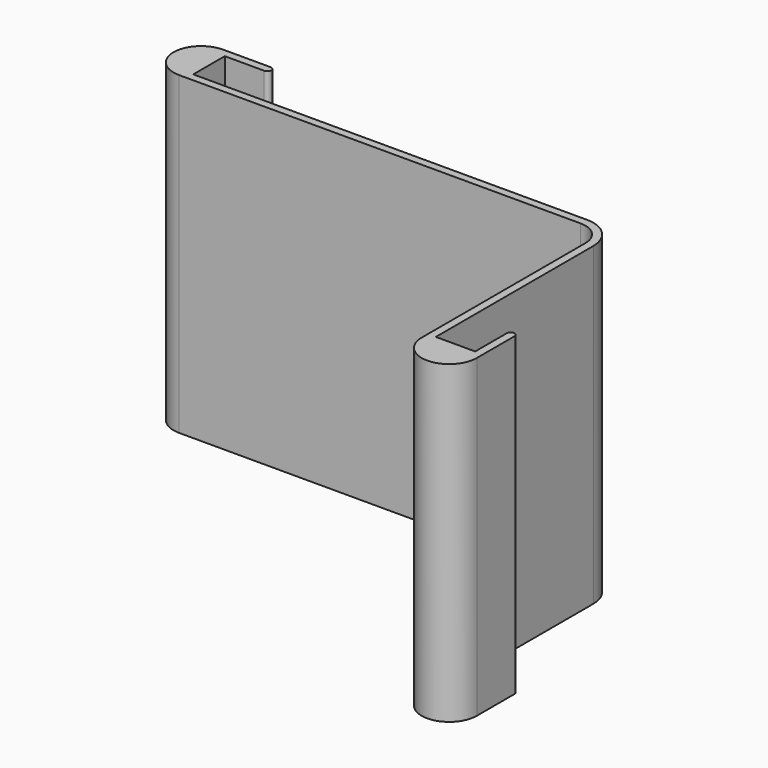
from build123d import *

# Parameters (mm, degrees)
PAD_DEPTH = 80


with BuildPart() as part:
    # Sketch → Pad (new body)
    with BuildSketch(Plane.XY):
        with BuildLine():
            Line((-53.441865, 0), (46.558135, 0))
            ThreePointArc((54.558135, -8), (52.214989, -2.343146), (46.558135, 0))
            Line((54.558135, -58), (54.558135, -8))
            Line((64.558135, -58), (54.558135, -58))
            Line((64.558135, -48), (64.558135, -58))
            ThreePointArc((66.558135, -48), (65.558135, -47), (64.558135, -48))
            Line((66.558135, -60), (66.558135, -48))
            ThreePointArc((52.558135, -60), (59.558135, -67), (66.558135, -60))
            Line((52.558135, -8), (52.558135, -60))
            ThreePointArc((52.558135, -8), (50.800776, -3.757359), (46.558135, -2))
            Line((-55.441865, -2), (46.558135, -2))
            ThreePointArc((-55.441865, 12), (-62.441865, 5), (-55.441865, -2))
            Line((-43.441865, 12), (-55.441865, 12))
            ThreePointArc((-43.441865, 10), (-42.441865, 11), (-43.441865, 12))
            Line((-53.441865, 10), (-43.441865, 10))
            Line((-53.441865, 0), (-53.441865, 10))
        make_face()
    extrude(amount=PAD_DEPTH)


solid = part.part
